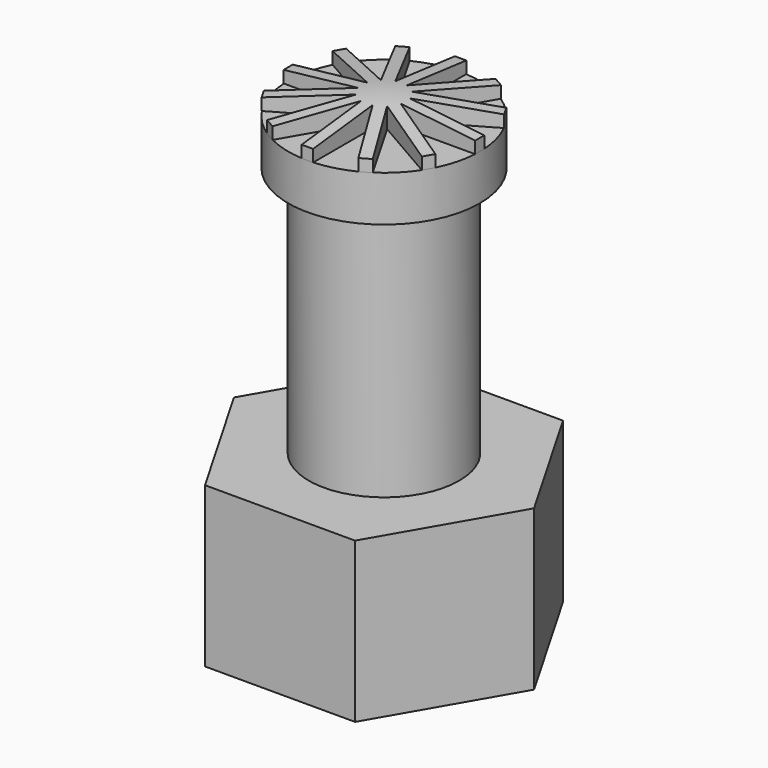
from build123d import *

# Parameters (mm, degrees)
PAD_DEPTH          = 7
SKETCH001_R        = 3.3
PAD001_DEPTH       = 11
SKETCH002_R        = 4.2
PAD002_DEPTH       = 2
SKETCH003_W        = 0.5
SKETCH003_H        = 4.2
PAD003_DEPTH       = 1
POLARPATTERN_COUNT = 12


with BuildPart() as part:
    # Sketch (on XY_Plane of Origin) → Pad (new body)
    with BuildSketch(Plane.XY):
        Polygon((6.581793, 0), (3.290897, 5.7), (-3.290897, 5.7), (-6.581793, 0), (-3.290897, -5.7), (3.290897, -5.7), align=None)
    extrude(amount=PAD_DEPTH)

    # Sketch001 (on Face8 of Pad) → Pad001 (join)
    with BuildSketch(Plane.XY.offset(7)):
        Circle(SKETCH001_R)
    extrude(amount=PAD001_DEPTH)

    # Sketch002 (on Face10 of Pad001) → Pad002 (join)
    with BuildSketch(Plane.XY.offset(18)):
        Circle(SKETCH002_R)
    extrude(amount=PAD002_DEPTH)

    # Sketch003 (on Face12 of Pad002) → Pad003 (join)
    with BuildSketch(Plane.XY.offset(20)):
        with Locations((0, 2.1)):
            Rectangle(SKETCH003_W, SKETCH003_H)
    pad003 = extrude(amount=PAD003_DEPTH)

    # PolarPattern: Pad003 ×12 about axis
    polarpattern_axis = Axis((0, 0, 20), (0, 0, 1))
    for i in range(1, POLARPATTERN_COUNT):
        add(pad003.rotate(polarpattern_axis, i * 360 / POLARPATTERN_COUNT))

    # Sketch004 (on YZ_Plane of Origin) → Groove (revolve, cut)
    with BuildSketch(Plane.YZ):
        Polygon((0, 21), (4.440189, 20.5), (4.440189, 21), align=None)
    revolve(axis=Axis((0, 0, 0), (0, 0, 1)), mode=Mode.SUBTRACT)


solid = part.part
